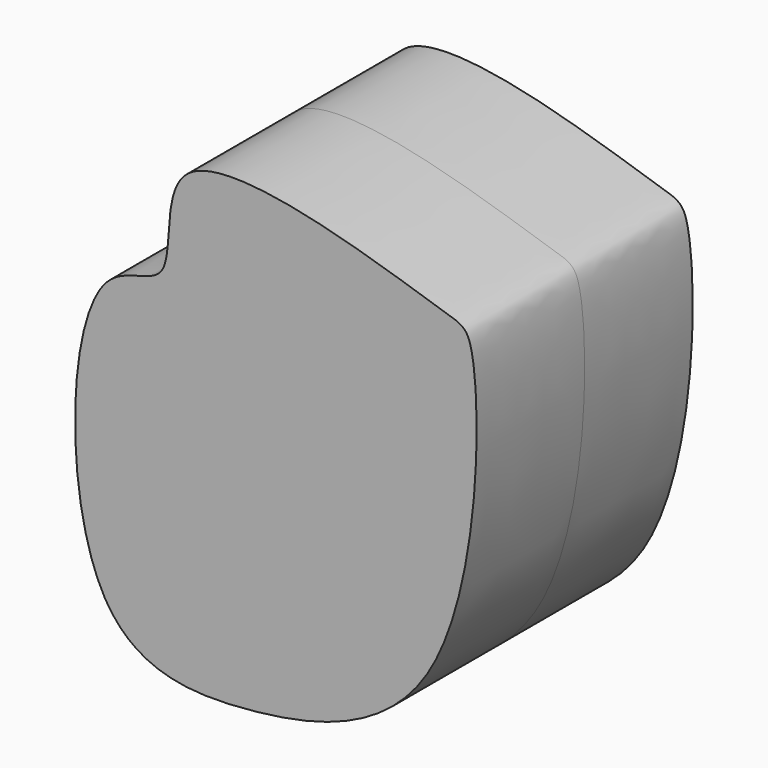
from build123d import *

# Parameters (mm, degrees)
F1_DEPTH      = 25.4
F1_DEPTH_BACK = 25.4


with BuildPart() as f1:
    # F0 (on Front) → F1 (new body, two sides)
    with BuildSketch(Plane.XZ) as f1_sk:
        with BuildLine():
            add(Edge.make_bspline(
                [(-37.3140797019, -29.0619302541), (-45.0179056798, -15.4946419445), (-44.211339693, 29.5958489092), (-22.1185010097, 24.0642976392), (-30.8757967687, 58.7645613587), (26.7602244012, 38.507199043), (33.888050381, 37.4926256282), (33.102290239, -30.0593003682), (-9.3716060358, -40.7047142629), (-31.5934628268, -39.1365683205), (-37.3140797019, -29.0619302541)],
                knots=[0, 0, 0, 0, 0.1653040473, 0.2441913606, 0.3423838769, 0.5003681049, 0.5631048797, 0.7343894966, 0.8772504564, 1, 1, 1, 1], degree=3))
        make_face()
    extrude(amount=F1_DEPTH)
    extrude(f1_sk.sketch, amount=-F1_DEPTH_BACK)


solid = f1.part
